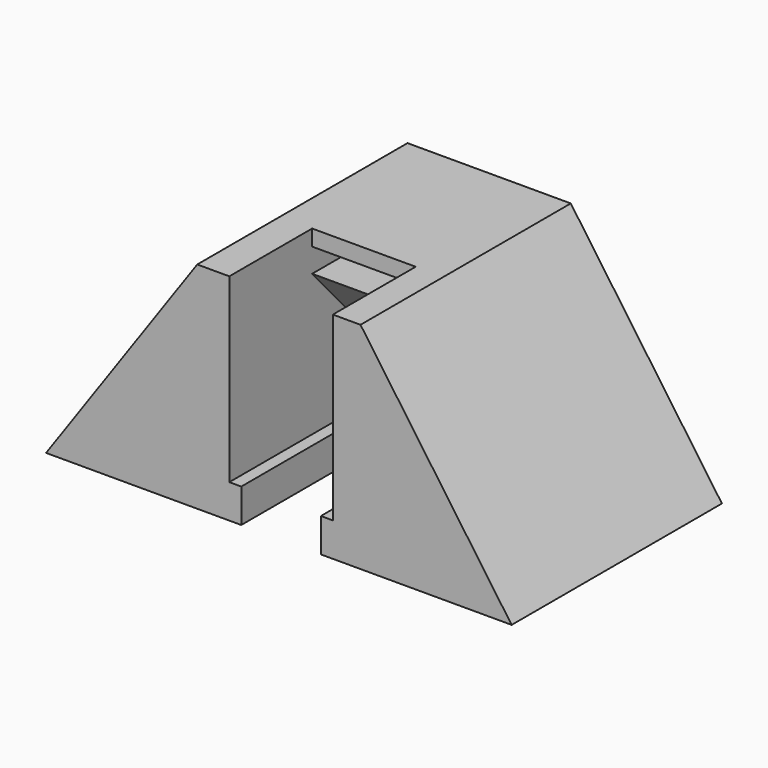
from build123d import *

# Parameters (mm, degrees)
F1_DEPTH = 33
F2_W     = 13
F2_H     = 22.75
F3_DEPTH = 13
F4_W     = 13
F4_H     = 3
F5_DEPTH = 5
F7_DEPTH = 6.5


with BuildPart() as f1:
    # F0 (on Front) → F1 (new body)
    with BuildSketch(Plane.XZ):
        Polygon((-10.527857, 27), (-29.503775, 0), (-5, 0), (-5, 8.67), (5, 8.67), (5, 0), (28.948061, 0), (9.972143, 27), align=None)
    extrude(amount=F1_DEPTH)

    # F2 (on face) → F3 (cut)
    with BuildSketch(Plane.XZ.offset(33)):
        with Locations((0, 15.625)):
            Rectangle(F2_W, F2_H)
    extrude(amount=-F3_DEPTH, mode=Mode.SUBTRACT)

    # F4 (on face) → F5 (cut)
    with BuildSketch(Plane.XZ.offset(20)):
        with Locations((0, 23.5)):
            Rectangle(F4_W, F4_H)
    extrude(amount=-F5_DEPTH, mode=Mode.SUBTRACT)

    # F6 (on Right) → F7 (cut, symmetric)
    with BuildSketch(Plane.YZ):
        Polygon((-8.09, 8.67), (-20, 22), (-20, 4.25), (-8.09, 4.25), align=None)
    extrude(amount=F7_DEPTH, both=True, mode=Mode.SUBTRACT)


solid = f1.part
